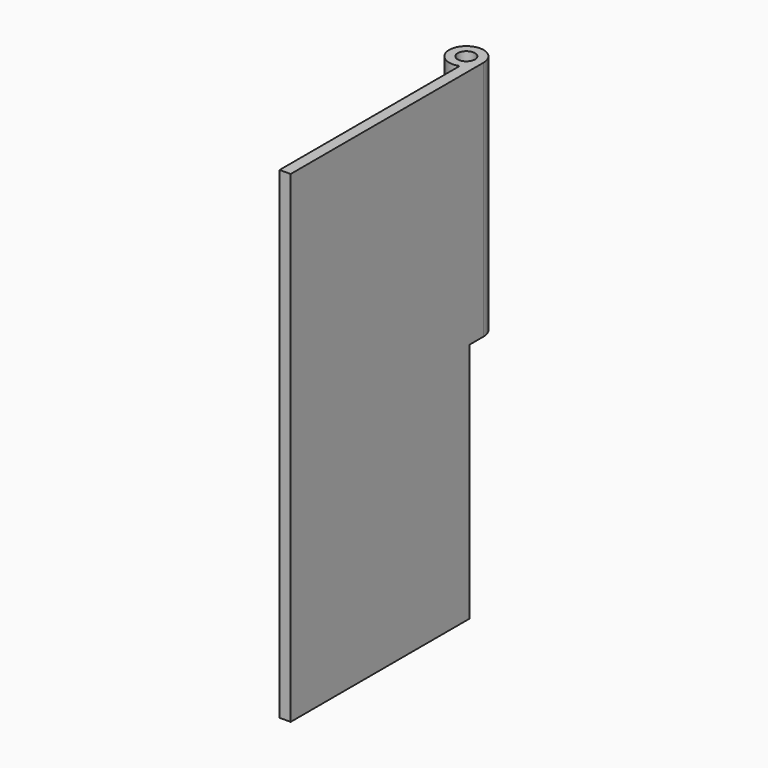
from build123d import *

# Parameters (mm, degrees)
F0_R     = 1.5875
F1_DEPTH = 88.9
F2_W     = 15.672178
F2_H     = 44.45
F3_DEPTH = 12.7


with BuildPart() as f1:
    # F0 (on Top) → F1 (new body)
    with BuildSketch(Plane.XY):
        with BuildLine():
            Line((3.175, -44.45), (3.175, 0))
            ThreePointArc((3.175, 0), (-2.618172, 1.796051), (1.143, -2.962124))
            Line((1.143, -2.962124), (1.143, -44.45))
            Line((1.143, -44.45), (3.175, -44.45))
        make_face()
        Circle(F0_R, mode=Mode.SUBTRACT)
    extrude(amount=F1_DEPTH)

    # F2 (on face) → F3 (cut, symmetric)
    with BuildSketch(Plane(origin=(1.143, 0, 0), x_dir=(0, -1, 0), z_dir=(-1, 0, 0))):
        with Locations((-4.534089, 22.225)):
            Rectangle(F2_W, F2_H)
    extrude(amount=F3_DEPTH, both=True, mode=Mode.SUBTRACT)


solid = f1.part
